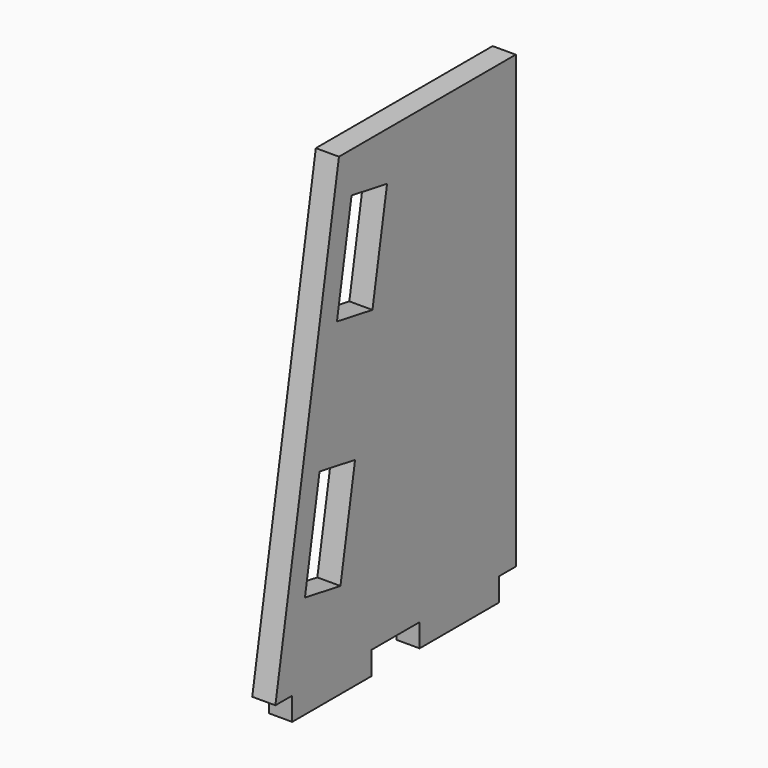
from build123d import *

# Parameters (mm, degrees)
F0_W     = 83.82
F0_H     = 19.558
F1_DEPTH = 19.558


with BuildPart() as f1:
    # F0 (on Right) → F1 (new body)
    with BuildSketch(Plane.YZ):
        Polygon((-17.953301, 168.605641), (-85.133881, -212.394359), (-67.353881, -212.394359), (-17.953301, -212.394359), (16.466119, -212.394359), (67.266119, -212.394359), (151.086119, -212.394359), (168.866119, -212.394359), (168.866119, 168.605641), align=None)
        Polygon((-0.928284, -63.954421), (-16.365607, -151.50383), (-53.886782, -144.887834), (-38.449459, -57.338425), align=None, mode=Mode.SUBTRACT)
        Polygon((32.874382, 127.750025), (17.437059, 40.200616), (-20.084116, 46.816611), (-4.646793, 134.366021), align=None, mode=Mode.SUBTRACT)
        Polygon((-17.953301, 168.605641), (-85.133881, -212.394359), (-67.353881, -212.394359), (-17.953301, -212.394359), (16.466119, -212.394359), (67.266119, -212.394359), (151.086119, -212.394359), (168.866119, -212.394359), (168.866119, 168.605641), align=None)
        Polygon((-0.928284, -63.954421), (-16.365607, -151.50383), (-53.886782, -144.887834), (-38.449459, -57.338425), align=None, mode=Mode.SUBTRACT)
        Polygon((32.874382, 127.750025), (17.437059, 40.200616), (-20.084116, 46.816611), (-4.646793, 134.366021), align=None, mode=Mode.SUBTRACT)
        Polygon((-17.953301, -212.394359), (-67.353881, -212.394359), (-67.353881, -231.952359), (16.466119, -231.952359), (16.466119, -212.394359), align=None)
        with Locations((109.176119, -222.173359)):
            Rectangle(F0_W, F0_H)
    extrude(amount=F1_DEPTH)


solid = f1.part
